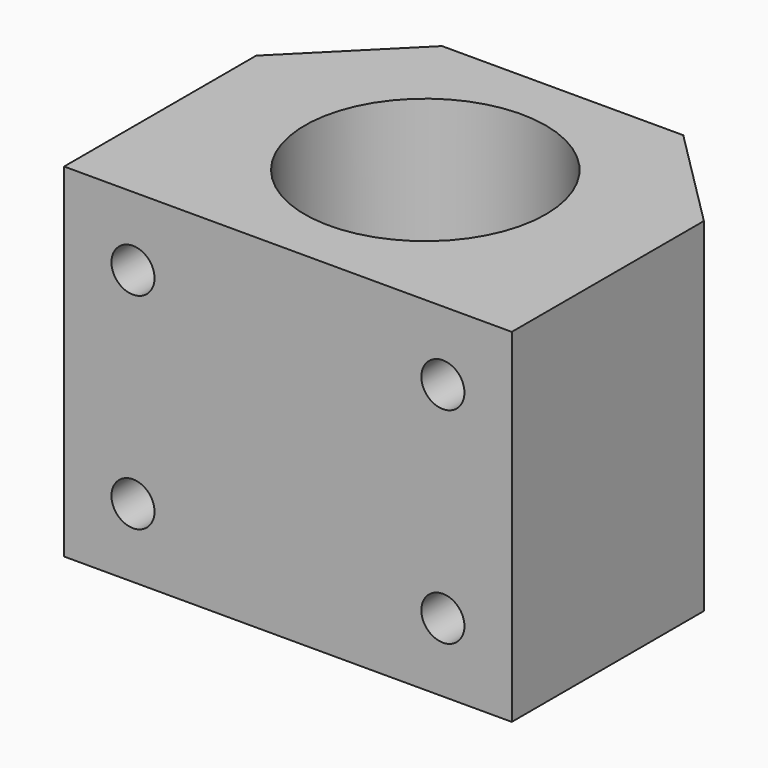
from build123d import *

# Parameters (mm, degrees)
F1_DEPTH = 39.878
F2_R     = 13.9954
F3_DEPTH = 39.879
F4_DEPTH = 39.879
F5_DEPTH = 39.879
F6_R     = 2.5019
F7_DEPTH = 11.938


with BuildPart() as f1:
    # F0 (on Top) → F1 (new body)
    with BuildSketch(Plane.XY):
        Polygon((-25.9969, -19.939), (25.9969, -19.939), (25.9969, 7.9502), (14.0081, 19.939), (-14.0081, 19.939), (-25.9969, 7.9502), align=None)
        Polygon((14.0081, 19.939), (25.9969, 7.9502), (25.9969, 19.939), align=None)
        Polygon((-25.9969, 19.939), (-25.9969, 7.9502), (-14.0081, 19.939), align=None)
    extrude(amount=F1_DEPTH)

    # F2 (on face) → F3 (cut, through all)
    with BuildSketch(Plane.XY.offset(39.878)):
        Circle(F2_R)
    extrude(amount=-F3_DEPTH, mode=Mode.SUBTRACT)

    # F0 (on Top) → F4 (cut, through all)
    with BuildSketch(Plane.XY):
        Polygon((14.0081, 19.939), (25.9969, 7.9502), (25.9969, 19.939), align=None)
    extrude(amount=F4_DEPTH, mode=Mode.SUBTRACT)

    # F0 (on Top) → F5 (cut, through all)
    with BuildSketch(Plane.XY):
        Polygon((-25.9969, 19.939), (-25.9969, 7.9502), (-14.0081, 19.939), align=None)
    extrude(amount=F5_DEPTH, mode=Mode.SUBTRACT)

    # F6 (on face) → F7 (cut)
    with BuildSketch(Plane.XZ.offset(19.939)):
        with Locations((17.9959, 31.877)):
            Circle(F6_R)
        with Locations((17.9959, 8.001)):
            Circle(F6_R)
        with Locations((-17.9959, 8.001)):
            Circle(F6_R)
        with Locations((-17.9959, 31.877)):
            Circle(F6_R)
    extrude(amount=-F7_DEPTH, mode=Mode.SUBTRACT)


solid = f1.part
